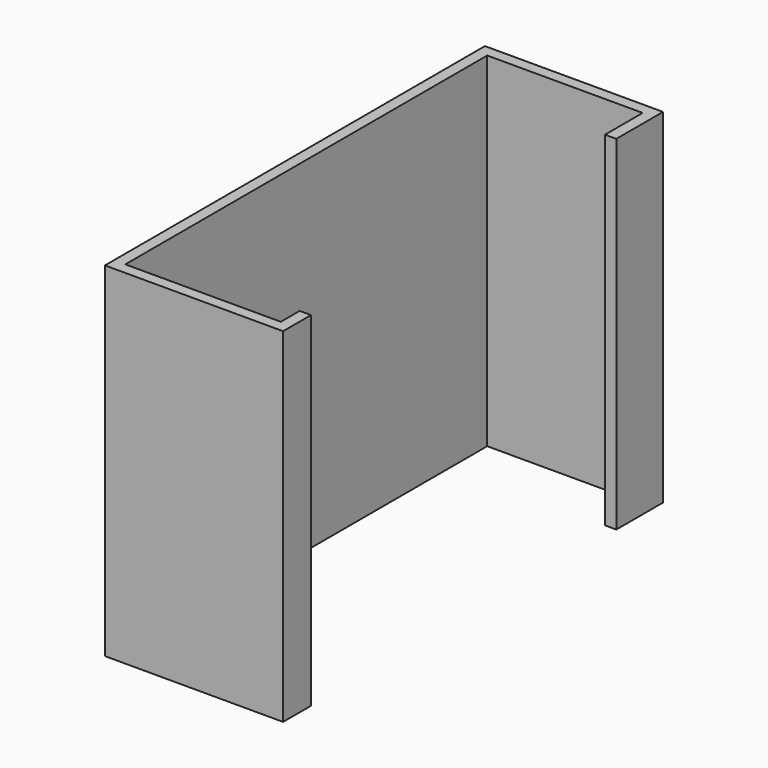
from build123d import *

# Parameters (mm, degrees)
F1_DEPTH = 36.5


with BuildPart() as f1:
    # F0 (on Top) → F1 (new body)
    with BuildSketch(Plane.XY):
        Polygon((16.5, 0), (0, 0), (0, 48), (16.5, 48), (16.5, 43), (17.7, 43), (17.7, 49.2), (-1.2, 49.2), (-1.2, -1.2), (17.7, -1.2), (17.7, 2.5), (16.5, 2.5), align=None)
    extrude(amount=-F1_DEPTH)


solid = f1.part
